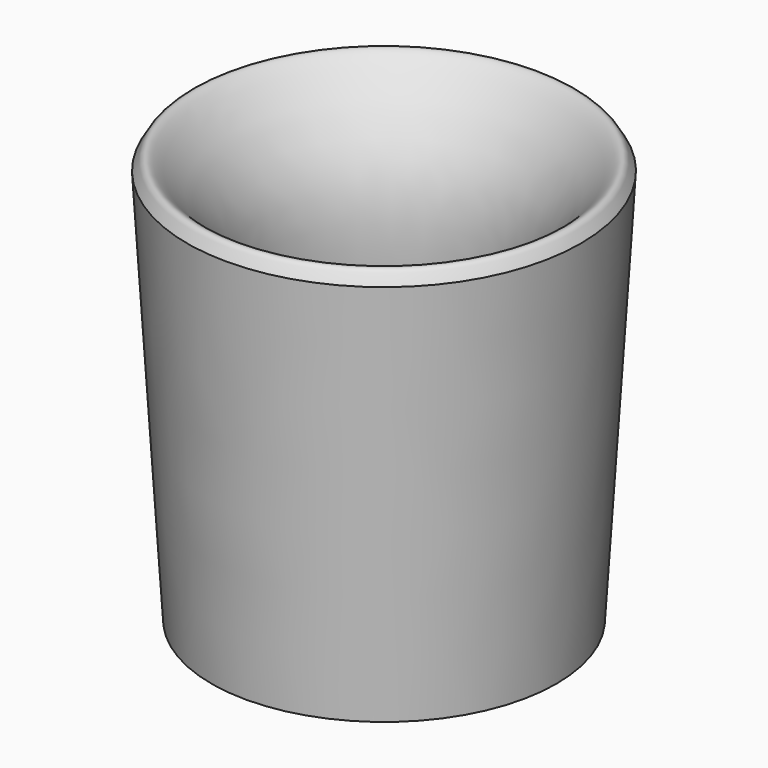
from build123d import *


with BuildPart() as f1:
    # F0 (on Front) → F1 (revolve)
    with BuildSketch(Plane.XZ):
        with BuildLine():
            add(Edge.make_bspline(
                [(-97.0513597131, 112.840257585), (-95.6463917087, 115.6344849529), (-92.6180832314, 121.6572409401), (-82.5465252089, 111.5230322218), (-59.1515676118, 82.1996913403), (-59.1091045794, 28.5131496377), (-75.315472611, -40.5832054531), (-85.0701704621, -82.1726918221)],
                knots=[0, 0, 0, 0, 0.092281145, 0.1989053899, 0.3986688013, 0.6380551697, 1, 1, 1, 1], degree=3))
            Line((-97.0513597131, 112.840257585), (-85.0701704621, -82.1726918221))
        make_face()
    revolve(axis=Axis((0, 0, 13.5493576527), (0, 0, -1)))


with BuildPart() as f1b:
    # F0 (on Front) → F1, piece 2 (revolve)
    with BuildSketch(Plane.XZ):
        with BuildLine():
            Line((0, -31.4752803144), (0, 60.6706840007))
            add(Edge.make_bspline(
                [(-1.3764216452, 60.6849613138), (-0.9155791269, 60.6849613015), (-0.4578429921, 60.6742743039), (0, 60.6706840007)],
                knots=[0.9719088696, 0.9719088696, 0.9719088696, 0.9719088696, 1, 1, 1, 1], degree=3))
            add(Edge.make_bspline(
                [(0, -31.4752803144), (-2.4825763596, -23.8125202245), (-8.0919024132, -6.5009672274), (-14.5380355318, 35.2653095242), (-15.4988932736, 51.7419949444), (-6.7387813079, 60.4149150075), (-2.7481800147, 60.6849613503), (-1.3764216452, 60.6849613138)],
                knots=[0, 0, 0, 0, 0.2416204168, 0.5459072278, 0.7334423603, 0.8882919251, 0.9719088696, 0.9719088696, 0.9719088696, 0.9719088696], degree=3))
        make_face()
    revolve(axis=Axis((0, 0, 13.5493576527), (0, 0, -1)))


solid = Compound([f1.part, f1b.part])
